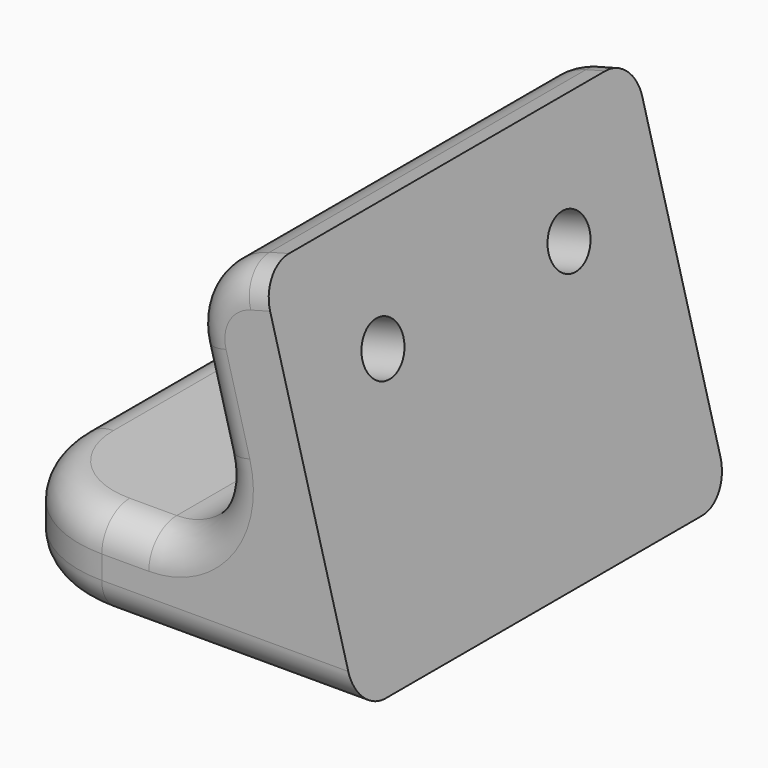
from build123d import *

# Parameters (mm, degrees)
CYLINDER081_R               = 1.9
CYLINDER081_DEPTH           = 20
BOX082_W                    = 3
BOX082_H                    = 24
BOX082_DEPTH                = 20
BOX082_PITCH_ANGLE          = -15
CYLINDER082_R               = 1.1
CYLINDER082_DEPTH           = 20
CYLINDER082_PLACEMENT_ANGLE = 75
CYLINDER083_R               = 1.1
CYLINDER083_DEPTH           = 20
CYLINDER083_PLACEMENT_ANGLE = 75
BOX080_W                    = 5
BOX080_H                    = 20
BOX080_DEPTH                = 15
BOX080_PITCH_ANGLE          = -15
BOX081_W                    = 16
BOX081_H                    = 20
BOX081_DEPTH                = 4
FILLET019_R                 = 5
FILLET021_R                 = 3
FILLET022_R                 = 3
FILLET023_R                 = 1.5


with BuildPart() as cylinder081:
    # Cylinder081 → Cylinder081 (new body)
    with BuildSketch(Plane(origin=(529, 40, -10), x_dir=(1, 0, 0), z_dir=(0, 0, 1))):
        Circle(CYLINDER081_R)
    extrude(amount=CYLINDER081_DEPTH)


with BuildPart() as cube054:
    # Box082 → Box082 (new body)
    with BuildSketch(Plane.XY):
        with Locations((1.5, 12)):
            Rectangle(BOX082_W, BOX082_H)
    extrude(amount=BOX082_DEPTH)


with BuildPart() as cube054_1:
    # Box082 pitch: moved
    add(cube054.part.rotate(Axis((0, 0, 0), (0, 1, 0)), BOX082_PITCH_ANGLE))


with BuildPart() as cube054_2:
    # Box082 placement: moved
    add(cube054_1.part.moved(Location((540, 28, 2))))


with BuildPart() as cylinder082:
    # Cylinder082 → Cylinder082 (new body)
    with BuildSketch(Plane.XY):
        Circle(CYLINDER082_R)
    extrude(amount=CYLINDER082_DEPTH)


with BuildPart() as cylinder082_1:
    # Cylinder082 placement: moved
    add(cylinder082.part.moved(Location((532, 35, 7.5))).rotate(Axis((532, 35, 7.5), (0, 1, 0)), CYLINDER082_PLACEMENT_ANGLE))


with BuildPart() as fusion090:
    # Cylinder083 → Cylinder083 (new body)
    with BuildSketch(Plane.XY):
        Circle(CYLINDER083_R)
    extrude(amount=CYLINDER083_DEPTH)


with BuildPart() as fusion090_1:
    # Cylinder083 placement: moved
    add(fusion090.part.moved(Location((532, 45, 7.5))).rotate(Axis((532, 45, 7.5), (0, 1, 0)), CYLINDER083_PLACEMENT_ANGLE))

    # Fusion090: union Cylinder082
    add(cylinder082_1.part)


with BuildPart() as fusion090_2:
    # Fusion090 placement: moved
    add(fusion090_1.part.moved(Location((0, 0, 4))))


with BuildPart() as cube052:
    # Box080 → Box080 (new body)
    with BuildSketch(Plane.XY):
        with Locations((2.5, 10)):
            Rectangle(BOX080_W, BOX080_H)
    extrude(amount=BOX080_DEPTH)


with BuildPart() as cube052_1:
    # Box080 pitch: moved
    add(cube052.part.rotate(Axis((0, 0, 0), (0, 1, 0)), BOX080_PITCH_ANGLE))


with BuildPart() as cube052_2:
    # Box080 placement: moved
    add(cube052_1.part.moved(Location((536, 30, 2))))


with BuildPart() as rear_door_closure_lock:
    # Box081 → Box081 (new body)
    with BuildSketch(Plane(origin=(524, 30, 2), x_dir=(1, 0, 0), z_dir=(0, 0, 1))):
        with Locations((8, 10)):
            Rectangle(BOX081_W, BOX081_H)
    extrude(amount=BOX081_DEPTH)

    # Fusion095: union Cube052
    add(cube052_2.part)

    # Cut102: cut Fusion090
    add(fusion090_2.part, mode=Mode.SUBTRACT)

    # Cut103: cut Cube054
    add(cube054_2.part, mode=Mode.SUBTRACT)

    # Cut104: cut Cylinder081
    add(cylinder081.part, mode=Mode.SUBTRACT)

    # Fillet019
    fillet019_edges = [rear_door_closure_lock.edges().sort_by_distance(p)[0] for p in [
        (524, 30, 4),
        (524, 50, 4),
    ]]
    fillet(fillet019_edges, radius=FILLET019_R)

    # Fillet021
    fillet021_edges = [rear_door_closure_lock.edges().sort_by_distance(p)[0] for p in [
        (534.928203, 40, 6),
    ]]
    fillet(fillet021_edges, radius=FILLET021_R)

    # Fillet022
    fillet022_edges = [rear_door_closure_lock.edges().sort_by_distance(p)[0] for p in [
        (532.117714, 40, 16.488887),
    ]]
    fillet(fillet022_edges, radius=FILLET022_R)

    # Fillet023
    fillet023_edges = [rear_door_closure_lock.edges().sort_by_distance(p)[0] for p in [
        (524, 40, 6),
        (524, 40, 2),
    ]]
    fillet(fillet023_edges, radius=FILLET023_R)


solid = rear_door_closure_lock.part
